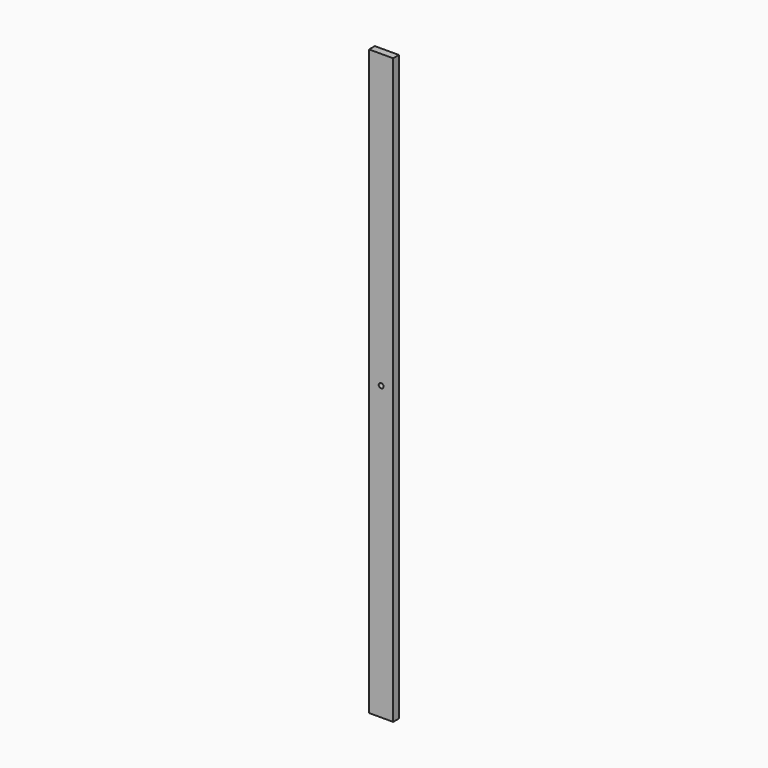
from build123d import *

# Parameters (mm, degrees)
F0_W     = 63.5
F0_H     = 19.05
F1_DEPTH = 1543.05
F3_DEPTH = 25.4


with BuildPart() as f1:
    # F0 (on Top) → F1 (new body)
    with BuildSketch(Plane.XY):
        Rectangle(F0_W, F0_H)
    extrude(amount=F1_DEPTH)

    # F2 (on face) → F3 (cut)
    with BuildSketch(Plane.XZ.offset(9.525)):
        with BuildLine():
            ThreePointArc((6.35, 771.525), (0, 777.875), (-6.35, 771.525))
            Line((-6.35, 771.525), (6.35, 771.525))
        make_face()
        with BuildLine():
            Line((6.35, 771.525), (-6.35, 771.525))
            ThreePointArc((-6.35, 771.525), (0, 765.175), (6.35, 771.525))
        make_face()
    extrude(amount=-F3_DEPTH, mode=Mode.SUBTRACT)


solid = f1.part
